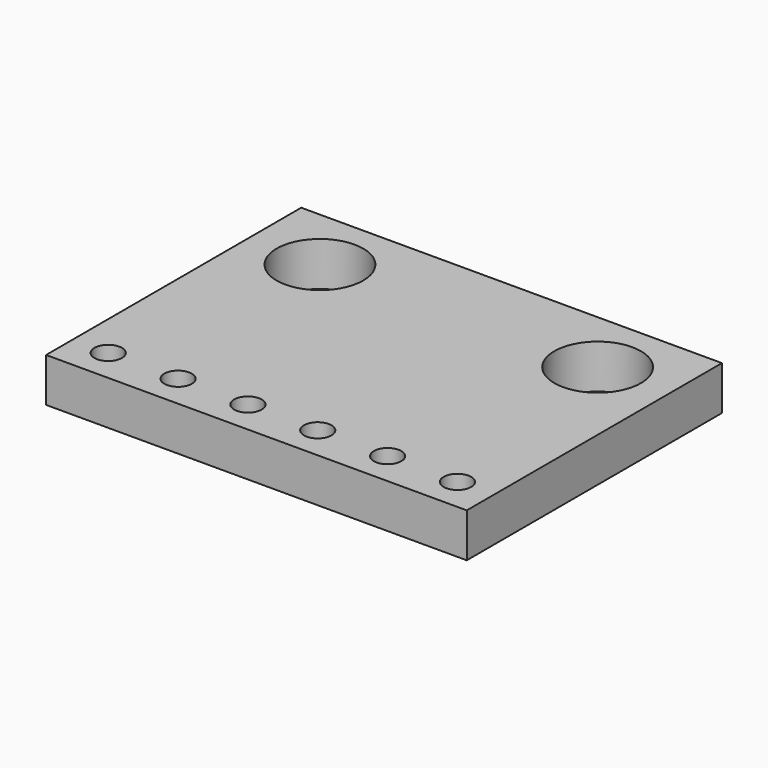
from build123d import *

# Parameters (mm, degrees)
SKETCH_W            = 15.3
SKETCH_H            = 11.6
SKETCH_R            = 1.575
PAD_DEPTH           = 1.6
SKETCH001_R         = 0.5
POCKET_DEPTH        = 0.001
POCKET_DEPTH_BACK   = 1.601
LINEARPATTERN_COUNT = 6
LINEARPATTERN_PITCH = 2.54


with BuildPart() as part:
    # Sketch → Pad (new body)
    with BuildSketch(Plane.XY):
        Rectangle(SKETCH_W, SKETCH_H)
        with Locations((-5.05, 3.4)):
            Circle(SKETCH_R, mode=Mode.SUBTRACT)
        with Locations((5.05, 3.4)):
            Circle(SKETCH_R, mode=Mode.SUBTRACT)
    extrude(amount=PAD_DEPTH)

    # Sketch001 → Pocket (cut, two sides)
    with BuildSketch(Plane.XY) as pocket_sk:
        with Locations((-6.35, -4.6)):
            Circle(SKETCH001_R)
    pocket = extrude(amount=-POCKET_DEPTH, mode=Mode.SUBTRACT) + extrude(pocket_sk.sketch, amount=POCKET_DEPTH_BACK, mode=Mode.SUBTRACT)

    # LinearPattern: Pocket ×6
    with Locations(*[(i * LINEARPATTERN_PITCH, 0, 0) for i in range(1, LINEARPATTERN_COUNT)]):
        add(pocket, mode=Mode.SUBTRACT)


solid = part.part
